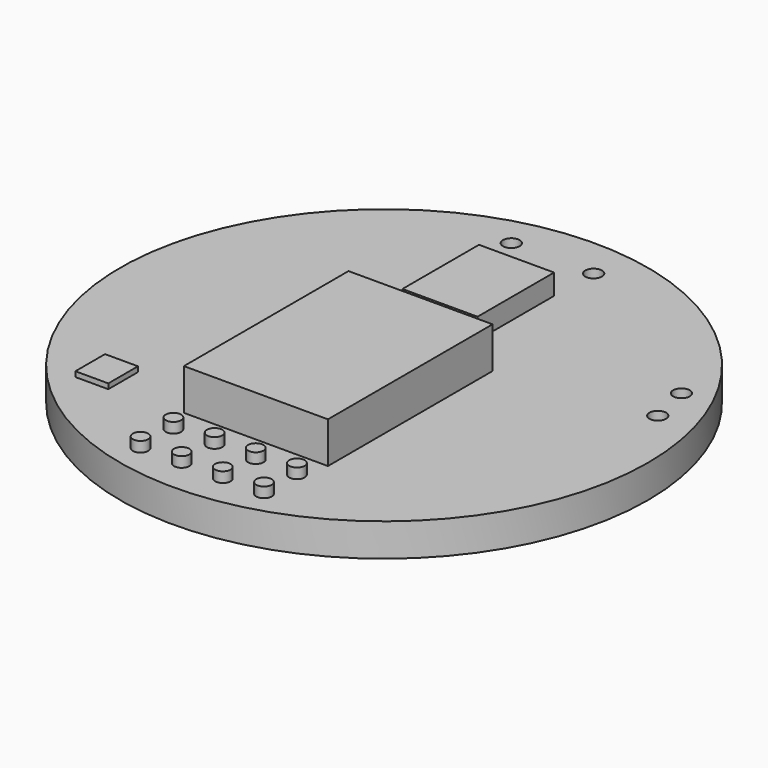
from build123d import *

# Parameters (mm, degrees)
F0_R          = 12.827
F0_R_2        = 0.405
F1_DEPTH      = 1.6
F2_W          = 7
F2_H          = 10
F3_DEPTH      = 2
F4_W          = 1.6
F4_H          = 1.8
F5_DEPTH      = 0.25
F6_W          = 3.65
F6_H          = 4.65
F7_DEPTH      = 1
F8_R          = 0.375
F9_DEPTH      = 0.5
F9_DEPTH_BACK = 2


with BuildPart() as f1:
    # F0 (on Top) → F1 (new body)
    with BuildSketch(Plane.XY):
        Circle(F0_R)
        with Locations((-2.5, 10.85358)):
            Circle(F0_R_2, mode=Mode.SUBTRACT)
        with Locations((10.7, 3.25)):
            Circle(F0_R_2, mode=Mode.SUBTRACT)
        with Locations((10.25, 5.25)):
            Circle(F0_R_2, mode=Mode.SUBTRACT)
        with Locations((1.5, 10.85358)):
            Circle(F0_R_2, mode=Mode.SUBTRACT)
    extrude(amount=F1_DEPTH)


with BuildPart() as f3:
    # F2 (on face) → F3 (new body)
    with BuildSketch(Plane.XY.offset(1.6)):
        with Locations((0.010796, -2.799757)):
            Rectangle(F2_W, F2_H)
    extrude(amount=F3_DEPTH)


with BuildPart() as f5:
    # F4 (on face) → F5 (new body)
    with BuildSketch(Plane.XY.offset(1.6)):
        with Locations((-7.741368, -7.175197)):
            Rectangle(F4_W, F4_H)
    extrude(amount=F5_DEPTH)


with BuildPart() as f7:
    # F6 (on face) → F7 (new body)
    with BuildSketch(Plane.XY.offset(1.6)):
        with Locations((-0.348698, 6.15607)):
            Rectangle(F6_W, F6_H)
    extrude(amount=F7_DEPTH)


with BuildPart() as f9:
    # F8 (on face) → F9 (new body, two sides)
    with BuildSketch(Plane.XY.offset(1.6)) as f9_sk:
        with Locations((-2.964859, -9.087789)):
            Circle(F8_R)
        with Locations((-0.964859, -9.087789)):
            Circle(F8_R)
        with Locations((1.035141, -9.087789)):
            Circle(F8_R)
        with Locations((3.035141, -9.087789)):
            Circle(F8_R)
        with Locations((-2.964859, -11.087789)):
            Circle(F8_R)
        with Locations((-0.964859, -11.087789)):
            Circle(F8_R)
        with Locations((1.035141, -11.087789)):
            Circle(F8_R)
        with Locations((3.035141, -11.087789)):
            Circle(F8_R)
    extrude(amount=F9_DEPTH)
    extrude(f9_sk.sketch, amount=-F9_DEPTH_BACK)


solid = Compound([f1.part, f3.part, f5.part, f7.part, f9.part])
